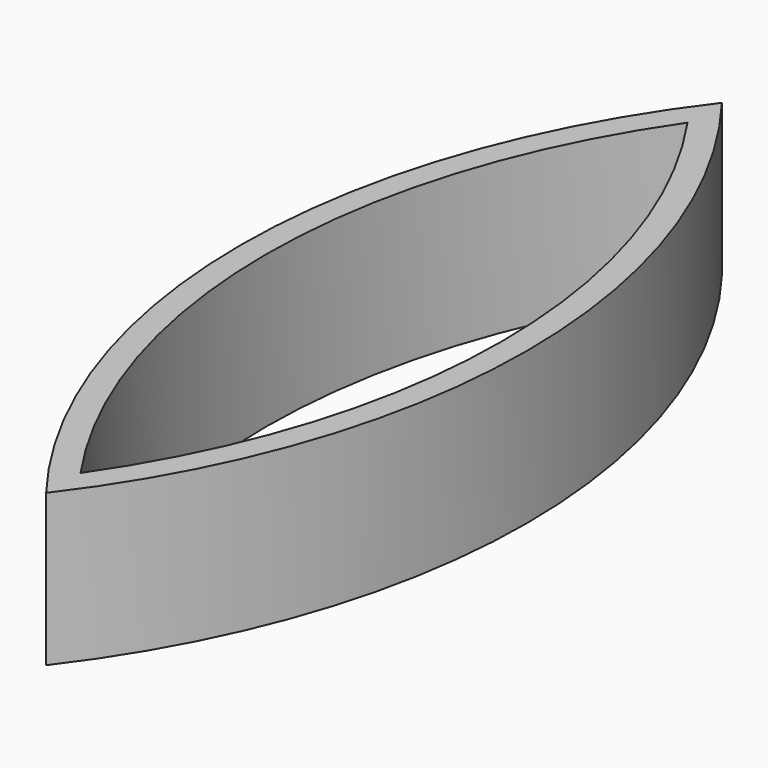
from build123d import *

# Parameters (mm, degrees)
F1_DEPTH = 6


with BuildPart() as f1:
    # F0 (on Top) → F1 (new body)
    with BuildSketch(Plane.XY):
        with BuildLine():
            ThreePointArc((0, -16.701104), (5.66175, 0), (0, 16.701104))
            ThreePointArc((0, 16.701104), (-5.66175, 0), (0, -16.701104))
        make_face()
        with BuildLine():
            ThreePointArc((0, 15), (4.66175, 0), (0, -15))
            ThreePointArc((0, -15), (-4.66175, 0), (0, 15))
        make_face(mode=Mode.SUBTRACT)
    extrude(amount=F1_DEPTH)


solid = f1.part
